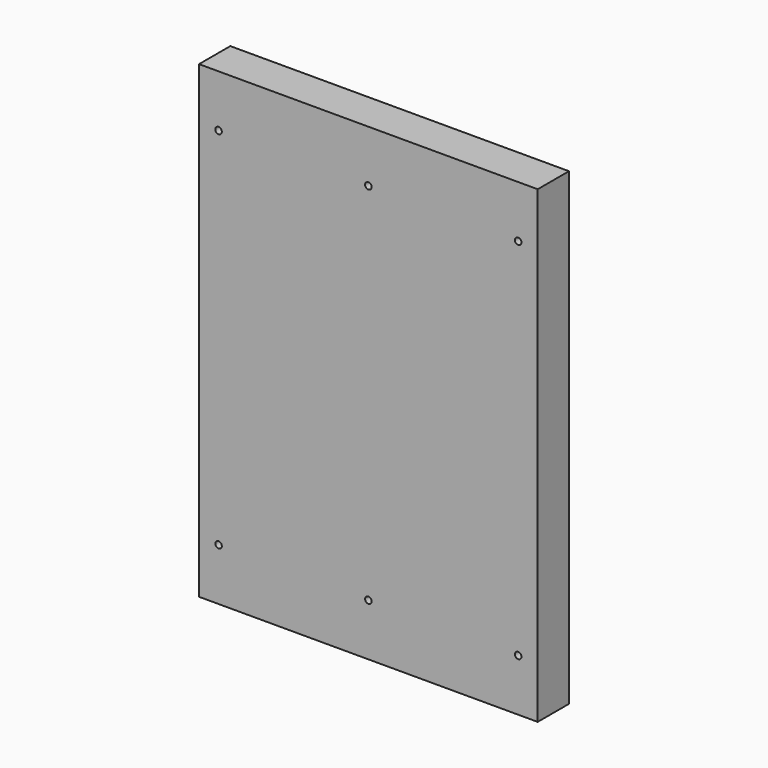
from build123d import *

# Parameters (mm, degrees)
F0_W     = 165.1
F0_H     = 228.6
F0_R     = 1.5875
F1_DEPTH = 19.05


with BuildPart() as f1:
    # F0 (on Front) → F1 (new body)
    with BuildSketch(Plane.XZ):
        Rectangle(F0_W, F0_H)
        with Locations((-73.025, -88.9)):
            Circle(F0_R, mode=Mode.SUBTRACT)
        with Locations((0, -88.9)):
            Circle(F0_R, mode=Mode.SUBTRACT)
        with Locations((73.025, -88.9)):
            Circle(F0_R, mode=Mode.SUBTRACT)
        with Locations((-73.025, 88.9)):
            Circle(F0_R, mode=Mode.SUBTRACT)
        with Locations((0, 88.9)):
            Circle(F0_R, mode=Mode.SUBTRACT)
        with Locations((73.025, 88.9)):
            Circle(F0_R, mode=Mode.SUBTRACT)
    extrude(amount=F1_DEPTH)


solid = f1.part
